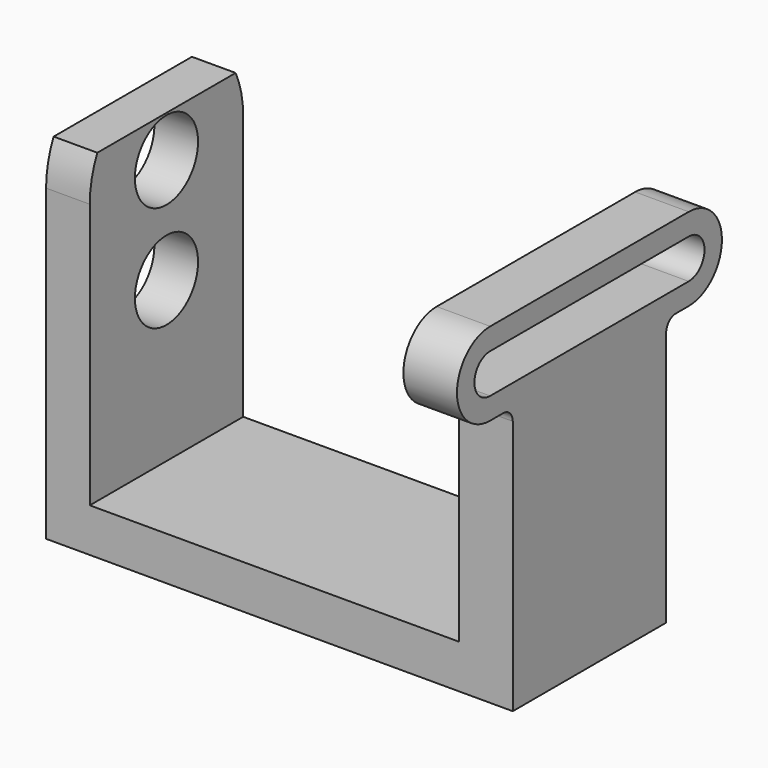
from build123d import *

# Parameters (mm, degrees)
F0_W      = 84.074
F0_H      = 76.2
F1_DEPTH  = 63.5
F2_W      = 66.548
F2_H      = 68.326
F3_DEPTH  = 63.501
F5_DEPTH  = 25.4
F4_W      = 14.478
F4_H      = 7.874
F6_DEPTH  = 84.075
F4_R      = 7.112
F7_DEPTH  = 25.4
F9_DEPTH  = 84.075
F10_DEPTH = 25.4


with BuildPart() as f1:
    # F0 (on Front) → F1 (new body)
    with BuildSketch(Plane.XZ):
        with Locations((42.037, 38.1)):
            Rectangle(F0_W, F0_H)
    extrude(amount=-F1_DEPTH)

    # F2 (on face) → F3 (cut, through all)
    with BuildSketch(Plane.XZ):
        with Locations((41.148, 42.037)):
            Rectangle(F2_W, F2_H)
    extrude(amount=-F3_DEPTH, mode=Mode.SUBTRACT)

    # F4 (on face) → F5 (cut)
    with BuildSketch(Plane(origin=(0, 0, 0), x_dir=(0, -1, 0), z_dir=(-1, 0, 0))):
        with BuildLine():
            Line((-63.5, 7.874), (-49.022, 7.874))
            Line((-49.022, 7.874), (-49.022, 55.626))
            ThreePointArc((-49.022, 55.626), (-31.75, 72.898), (-14.478, 55.626))
            Line((-14.478, 55.626), (-14.478, 7.874))
            Line((-14.478, 7.874), (0, 7.874))
            Line((0, 7.874), (0, 76.2))
            Line((0, 76.2), (-63.5, 76.2))
            Line((-63.5, 76.2), (-63.5, 7.874))
        make_face()
    extrude(amount=-F5_DEPTH, mode=Mode.SUBTRACT)

    # F4 (on face) → F6 (cut, through all)
    with BuildSketch(Plane(origin=(0, 0, 0), x_dir=(0, -1, 0), z_dir=(-1, 0, 0))):
        with Locations((-56.261, 3.937)):
            Rectangle(F4_W, F4_H)
        with Locations((-7.239, 3.937)):
            Rectangle(F4_W, F4_H)
    extrude(amount=-F6_DEPTH, mode=Mode.SUBTRACT)

    # F4 (on face) → F7 (cut)
    with BuildSketch(Plane(origin=(0, 0, 0), x_dir=(0, -1, 0), z_dir=(-1, 0, 0))):
        with Locations((-31.75, 36.576)):
            Circle(F4_R)
        with Locations((-31.75, 55.626)):
            Circle(F4_R)
    extrude(amount=-F7_DEPTH, mode=Mode.SUBTRACT)

    # F8 (on face) → F9 (cut, through all)
    with BuildSketch(Plane.YZ.offset(84.074)):
        with BuildLine():
            Line((0, 7.874), (14.478, 7.874))
            Line((14.478, 7.874), (14.478, 45.974))
            ThreePointArc((14.478, 45.974), (13.840888, 47.512124), (12.302764, 48.149236))
            Line((12.302764, 48.149236), (9.398, 48.149236))
            ThreePointArc((9.398, 48.149236), (1.921236, 55.626), (9.398, 63.102764))
            Line((9.398, 63.102764), (31.75, 63.102764))
            Line((31.75, 63.102764), (54.102, 63.102764))
            ThreePointArc((54.102, 63.102764), (61.578764, 55.626), (54.102, 48.149236))
            Line((54.102, 48.149236), (51.197236, 48.149236))
            ThreePointArc((51.197236, 48.149236), (49.659112, 47.512124), (49.022, 45.974))
            Line((49.022, 45.974), (49.022, 7.874))
            Line((49.022, 7.874), (63.5, 7.874))
            Line((63.5, 7.874), (63.5, 76.2))
            Line((63.5, 76.2), (0, 76.2))
            Line((0, 76.2), (0, 7.874))
        make_face()
    extrude(amount=-F9_DEPTH, mode=Mode.SUBTRACT)

    # F8 (on face) → F10 (cut)
    with BuildSketch(Plane.YZ.offset(84.074)):
        with BuildLine():
            ThreePointArc((54.102, 52.07), (57.658, 55.626), (54.102, 59.182))
            Line((54.102, 59.182), (31.75, 59.182))
            Line((31.75, 59.182), (9.398, 59.182))
            ThreePointArc((9.398, 59.182), (5.842, 55.626), (9.398, 52.07))
            Line((9.398, 52.07), (31.75, 52.07))
            Line((31.75, 52.07), (54.102, 52.07))
        make_face()
    extrude(amount=-F10_DEPTH, mode=Mode.SUBTRACT)


solid = f1.part
